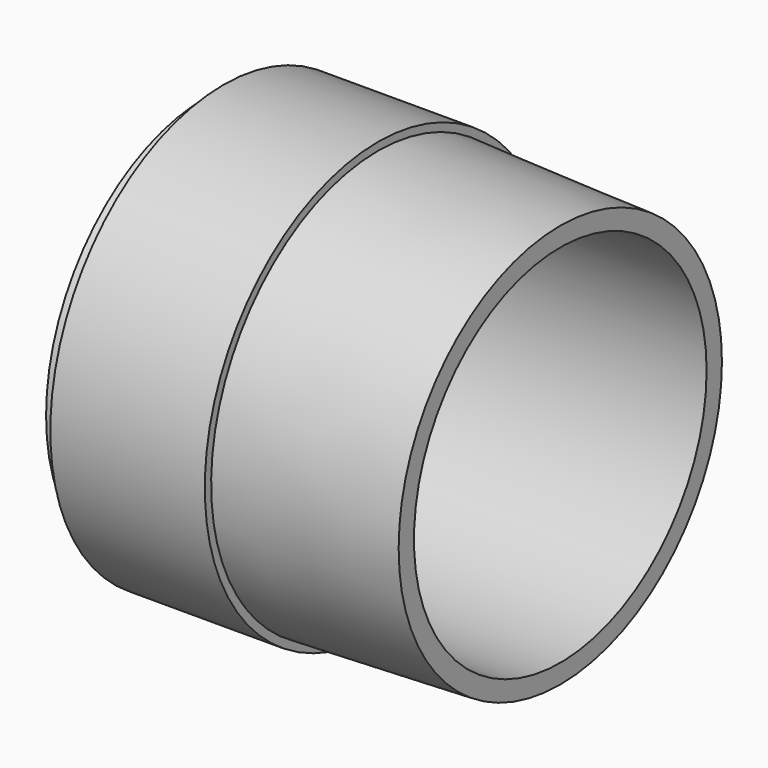
from build123d import *

# Parameters (mm, degrees)
F2_R     = 13.85
F3_DEPTH = 26.901
F4_R     = 16.4
F4_R_2   = 15.05
F5_DEPTH = 1.4


with BuildPart() as f1:
    # F0 (on Front) → F1 (revolve)
    with BuildSketch(Plane.XZ):
        Polygon((-13.8, 16.4), (-26.9, 16.4), (-26.9, 0), (-13.8, 0), (-13.8, 15.8), align=None)
        Polygon((0, 15.3), (-13.8, 15.8), (-13.8, 0), (0, 0), align=None)
    revolve(axis=Axis((-20.35, 0, 0), (1, 0, 0)))

    # F2 (on face) → F3 (cut, through all)
    with BuildSketch(Plane.YZ):
        Circle(F2_R)
    extrude(amount=-F3_DEPTH, mode=Mode.SUBTRACT)

    # F4 (on face) → F5 (cut)
    with BuildSketch(Plane(origin=(-26.9, 0, 0), x_dir=(0, -1, 0), z_dir=(-1, 0, 0))):
        Circle(F4_R)
        Circle(F4_R_2, mode=Mode.SUBTRACT)
    extrude(amount=-F5_DEPTH, mode=Mode.SUBTRACT)


solid = f1.part
